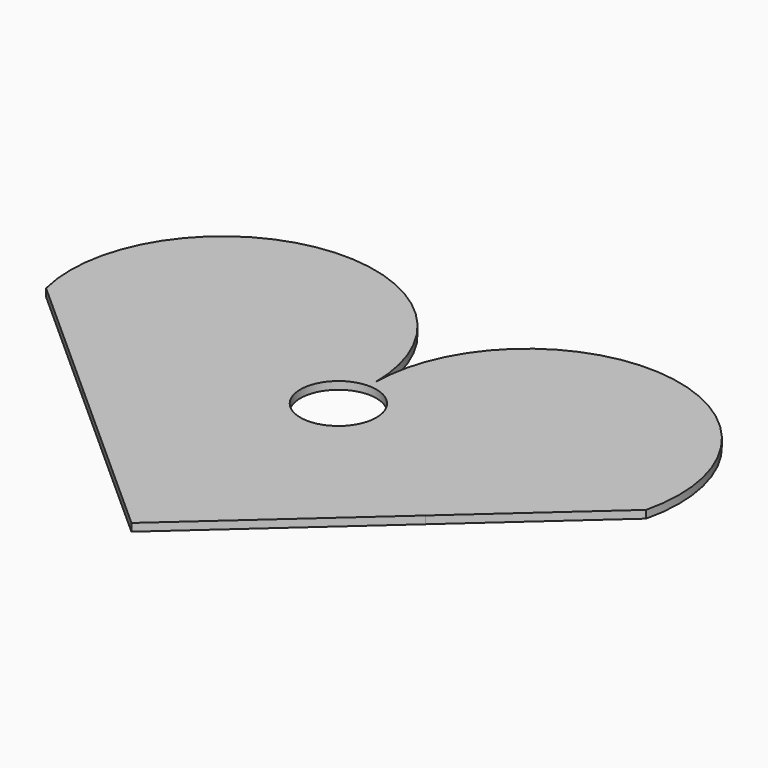
from build123d import *

# Parameters (mm, degrees)
F1_DEPTH = 2.54
F2_R     = 12.5
F3_DEPTH = 25.4


with BuildPart() as f1:
    # F0 (on Top) → F1 (new body)
    with BuildSketch(Plane.XY):
        with BuildLine():
            ThreePointArc((98.582891, 38.180412), (55.952119, 99.644459), (0, 50))
            ThreePointArc((0, 50), (-55.952119, 99.644459), (-98.582891, 38.180412))
            Line((-98.582891, 38.180412), (-56.351205, 0.405018))
            Line((-56.351205, 0.405018), (0, -50))
            Line((0, -50), (56.351205, 0.405018))
            Line((56.351205, 0.405018), (98.582891, 38.180412))
        make_face()
    extrude(amount=F1_DEPTH)

    # F2 (on face) → F3 (cut)
    with BuildSketch(Plane.XY.offset(2.54)):
        with Locations((0, 35)):
            Circle(F2_R)
    extrude(amount=-F3_DEPTH, mode=Mode.SUBTRACT)


solid = f1.part
